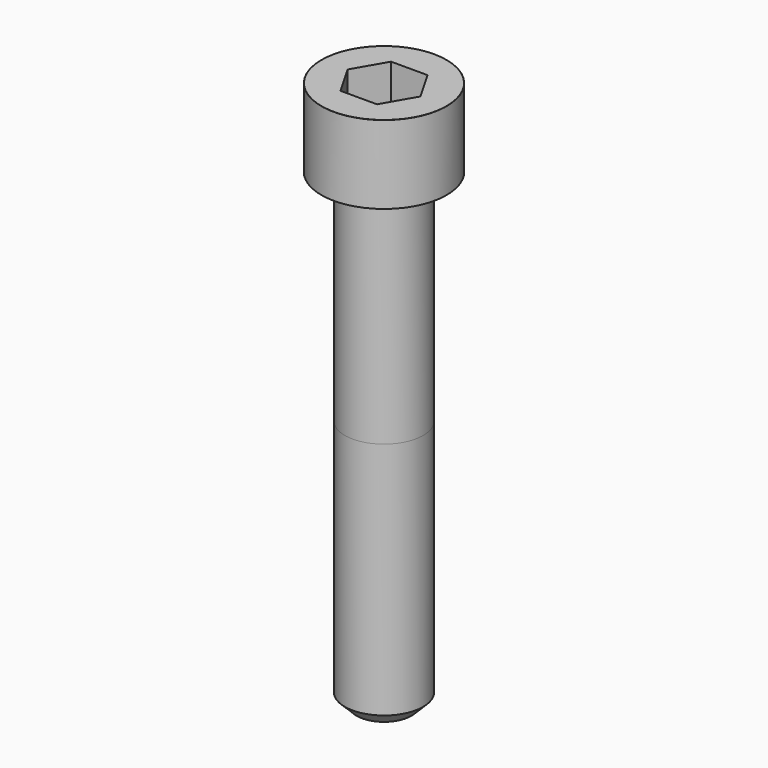
from build123d import *

# Parameters (mm, degrees)
POCKET_DEPTH = 8.07


with BuildPart() as part:
    # Sketch → Revolve (revolve)
    with BuildSketch(Plane.YZ):
        with BuildLine():
            Line((4.999, 0), (8, 0))
            Line((8, 0), (8, 9.97229))
            ThreePointArc((8, 9.97229), (7.991884, 9.991884), (7.97229, 10))
            Line((7.97229, 10), (0, 10))
            Line((0, -60), (0, 10))
            Line((3.5, -60), (0, -60))
            Line((5, -58.5), (3.5, -60))
            Line((5, -28), (5, -58.5))
            Line((4.999, 0), (5, -28))
        make_face()
    revolve(axis=Axis((0, 0, 0), (0, 0, 1)))

    # Sketch001 → Pocket (cut)
    with BuildSketch(Plane.XY.offset(10)):
        Polygon((4.659217, 0), (2.329608, 4.035), (-2.329608, 4.035), (-4.659217, 0), (-2.329608, -4.035), (2.329608, -4.035), align=None)
    extrude(amount=-POCKET_DEPTH, mode=Mode.SUBTRACT)


solid = part.part
